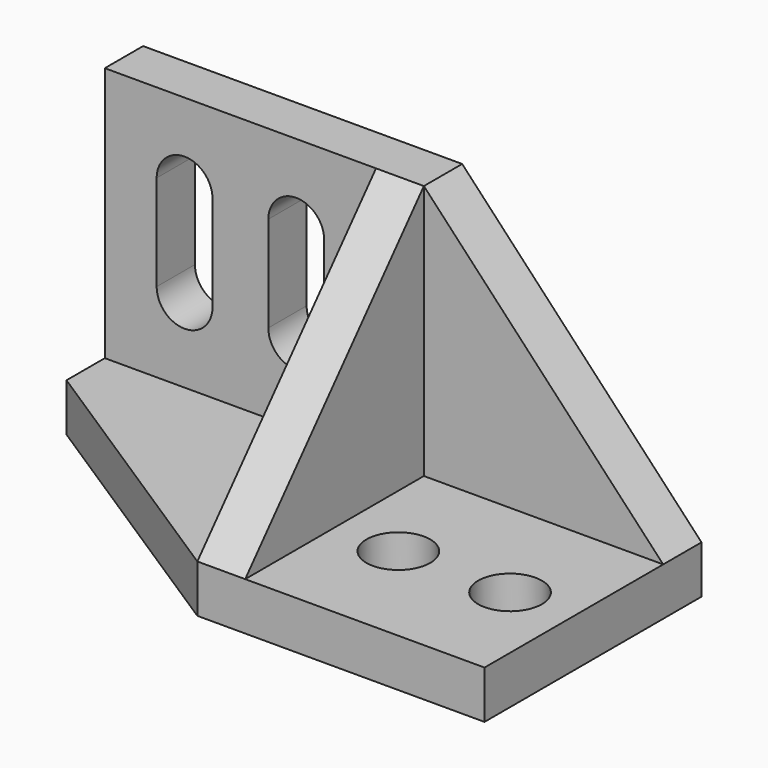
from build123d import *

# Parameters (mm, degrees)
F0_W      = 111.125
F0_H      = 9.525
F1_DEPTH  = 53.975
F3_DEPTH  = 9.526
F4_W      = 9.525
F4_H      = 44.45
F5_DEPTH  = 50.8
F7_DEPTH  = 63.501
F9_DEPTH  = 9.526
F10_R     = 6.35
F11_DEPTH = 9.526
F13_DEPTH = 9.526


with BuildPart() as f1:
    # F0 (on Front) → F1 (new body)
    with BuildSketch(Plane.XZ):
        with Locations((16.7216053668, -25.4447730258)):
            Rectangle(F0_W, F0_H)
    extrude(amount=-F1_DEPTH)

    # F2 (on face) → F3 (cut, through all)
    with BuildSketch(Plane.XY.offset(-20.6822730258)):
        Polygon((15.1341053668, 0), (-38.8408946332, 34.925), (-38.8408946332, 0), align=None)
    extrude(amount=-F3_DEPTH, mode=Mode.SUBTRACT)

    # F4 (on face) → F5 (join)
    with BuildSketch(Plane.XY.offset(-20.6822730258)):
        with Locations((19.8966053668, 22.225)):
            Rectangle(F4_W, F4_H)
        Polygon((72.2841053668, 44.45), (72.2841053668, 53.975), (-38.8408946332, 53.975), (-38.8408946332, 44.45), (15.1341053668, 44.45), (24.6591053668, 44.45), align=None)
    extrude(amount=F5_DEPTH)

    # F6 (on face) → F7 (cut, through all)
    with BuildSketch(Plane.YZ.offset(24.6591053668)):
        Polygon((0, 30.1177269742), (0, -20.6822730258), (44.45, 30.1177269742), align=None)
    extrude(amount=-F7_DEPTH, mode=Mode.SUBTRACT)

    # F8 (on face) → F9 (cut, through all)
    with BuildSketch(Plane.XZ.offset(-44.45)):
        Polygon((72.2841053668, 30.1177269742), (24.6591053668, 30.1177269742), (72.2841053668, -20.6822730258), align=None)
    extrude(amount=-F9_DEPTH, mode=Mode.SUBTRACT)

    # F10 (on face) → F11 (cut, through all)
    with BuildSketch(Plane.XY.offset(-20.6822730258)):
        with Locations((37.3591053668, 22.225)):
            Circle(F10_R)
        with Locations((59.5841053668, 22.225)):
            Circle(F10_R)
    extrude(amount=-F11_DEPTH, mode=Mode.SUBTRACT)

    # F12 (on face) → F13 (cut, through all)
    with BuildSketch(Plane.XZ.offset(-44.45)):
        Polygon((-22.9658946332, 14.2427269742), (-28.5221446332, 14.2427269742), (-28.5221446332, -4.8072730258), (-17.4096446332, -4.8072730258), (-17.4096446332, 14.2427269742), align=None)
        with BuildLine():
            ThreePointArc((-17.4096446332, 14.2427269742), (-22.9658946332, 19.7989769742), (-28.5221446332, 14.2427269742))
            Line((-28.5221446332, 14.2427269742), (-22.9658946332, 14.2427269742))
            Line((-22.9658946332, 14.2427269742), (-17.4096446332, 14.2427269742))
        make_face()
        with BuildLine():
            Line((4.8153553668, -4.8072730258), (-6.2971446332, -4.8072730258))
            ThreePointArc((-6.2971446332, -4.8072730258), (-0.7408946332, -10.3635230258), (4.8153553668, -4.8072730258))
        make_face()
        Polygon((-0.7408946332, 14.2427269742), (-6.2971446332, 14.2427269742), (-6.2971446332, -4.8072730258), (4.8153553668, -4.8072730258), (4.8153553668, 14.2427269742), align=None)
        with BuildLine():
            ThreePointArc((4.8153553668, 14.2427269742), (-0.7408946332, 19.7989769742), (-6.2971446332, 14.2427269742))
            Line((-6.2971446332, 14.2427269742), (-0.7408946332, 14.2427269742))
            Line((-0.7408946332, 14.2427269742), (4.8153553668, 14.2427269742))
        make_face()
        with BuildLine():
            Line((-17.4096446332, -4.8072730258), (-28.5221446332, -4.8072730258))
            ThreePointArc((-28.5221446332, -4.8072730258), (-22.9658946332, -10.3635230258), (-17.4096446332, -4.8072730258))
        make_face()
    extrude(amount=-F13_DEPTH, mode=Mode.SUBTRACT)


solid = f1.part
